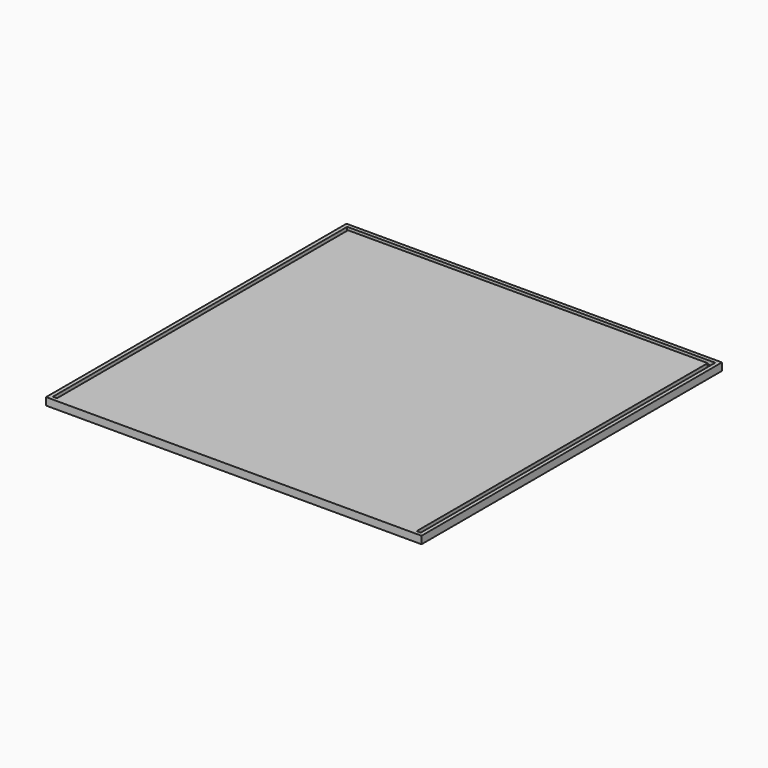
from build123d import *

# Parameters (mm, degrees)
F0_W     = 500
F0_H     = 500
F1_DEPTH = 10
F2_W     = 479
F2_H     = 5.5
F3_DEPTH = 5


with BuildPart() as f1:
    # F0 (on Top) → F1 (new body)
    with BuildSketch(Plane.XY):
        with Locations((250, 250)):
            Rectangle(F0_W, F0_H)
    extrude(amount=F1_DEPTH)

    # F2 (on face) → F3 (cut)
    with BuildSketch(Plane.XY.offset(10)):
        with Locations((250, 492.25)):
            Rectangle(F2_W, F2_H)
        Polygon((5, 495), (5, 5), (10.5, 5), (10.5, 489.5), (10.5, 495), align=None)
        Polygon((489.5, 495), (489.5, 489.5), (489.5, 5), (495, 5), (495, 495), align=None)
    extrude(amount=-F3_DEPTH, mode=Mode.SUBTRACT)


solid = f1.part
